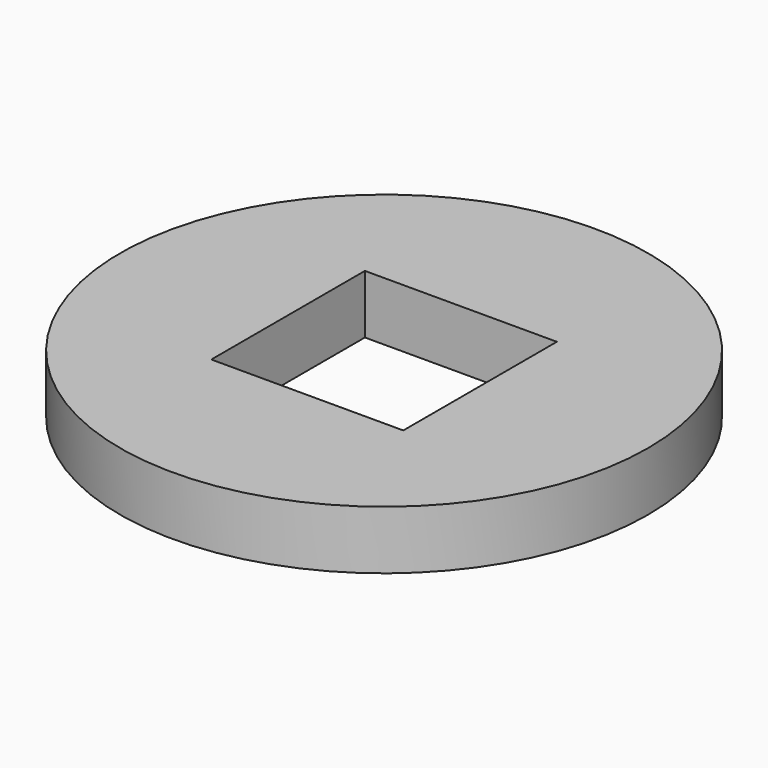
from build123d import *

# Parameters (mm, degrees)
F0_R     = 13.5
F0_W     = 9.818181
F0_H     = 9.818182
F1_DEPTH = 3


with BuildPart() as f1:
    # F0 (on Top) → F1 (new body)
    with BuildSketch(Plane.XY):
        with Locations((17.741328, -12.01138)):
            Circle(F0_R)
        with Locations((17.741327, -12.01138)):
            Rectangle(F0_W, F0_H, mode=Mode.SUBTRACT)
    extrude(amount=F1_DEPTH)


solid = f1.part
